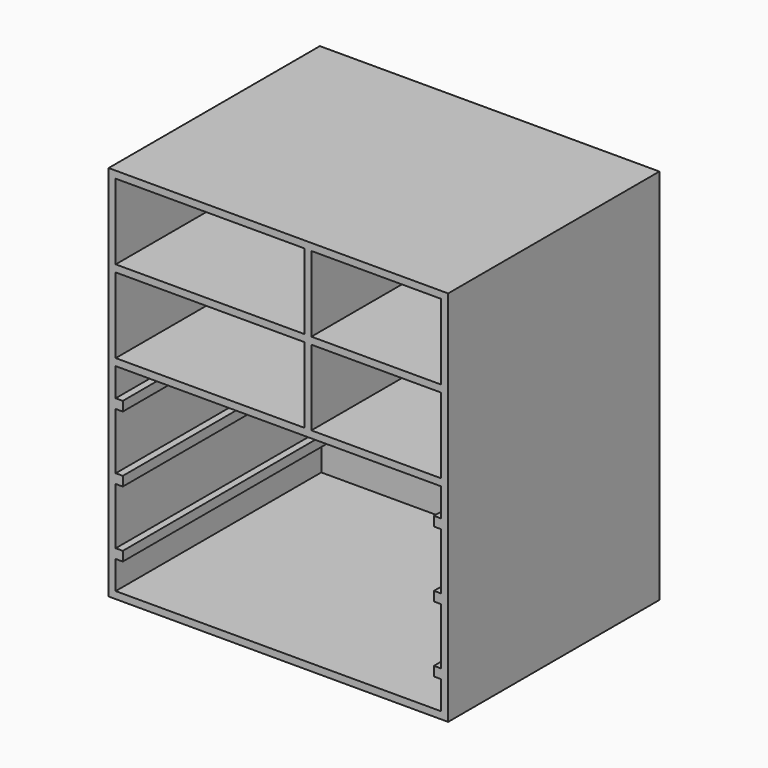
from build123d import *

# Parameters (mm, degrees)
F0_W     = 914.4
F0_H     = 1016
F0_W_2   = 508
F0_H_2   = 203.2
F0_W_3   = 349.25
F0_W_4   = 19.1113628226
F0_H_3   = 25.4
F1_DEPTH = 19.05
F2_DEPTH = 692.15


with BuildPart() as f1:
    # F0 (on Front) → F1 (new body)
    with BuildSketch(Plane.XZ):
        Rectangle(F0_W, F0_H)
        Polygon((-438.15, -31.75), (-438.15, 44.45), (438.15, 44.45), (438.15, -31.75), (438.15, -57.15), (438.15, -209.55), (438.15, -234.95), (438.15, -387.35), (438.15, -412.75), (438.15, -488.95), (-438.15, -488.95), (-438.15, -412.75), (-438.15, -387.35), (-438.15, -234.95), (-438.15, -209.55), (-438.15, -57.15), align=None, mode=Mode.SUBTRACT)
        with Locations((-184.15, 165.1)):
            Rectangle(F0_W_2, F0_H_2, mode=Mode.SUBTRACT)
        with Locations((-184.15, 387.35)):
            Rectangle(F0_W_2, F0_H_2, mode=Mode.SUBTRACT)
        with Locations((263.525, 165.1)):
            Rectangle(F0_W_3, F0_H_2, mode=Mode.SUBTRACT)
        Polygon((438.15, 488.95), (438.15, 285.75), (88.9, 285.75), (88.9, 317.5), (88.9, 488.95), align=None, mode=Mode.SUBTRACT)
        Polygon((88.9, 285.75), (438.15, 285.75), (438.15, 488.95), (88.9, 488.95), (88.9, 317.5), align=None)
        Polygon((88.9, 285.75), (438.15, 285.75), (438.15, 488.95), (88.9, 488.95), (88.9, 317.5), align=None)
        with Locations((-184.15, 165.1)):
            Rectangle(F0_W_2, F0_H_2)
        Polygon((438.15, 44.45), (-438.15, 44.45), (-438.15, -31.75), (-419.0386371774, -31.75), (-419.0386371774, -57.15), (-438.15, -57.15), (-438.15, -209.55), (-419.0386371774, -209.55), (-419.0386371774, -234.95), (-438.15, -234.95), (-438.15, -387.35), (-419.0386371774, -387.35), (-419.0386371774, -412.75), (-438.15, -412.75), (-438.15, -488.95), (438.15, -488.95), (438.15, -412.75), (419.0386371774, -412.75), (419.0386371774, -387.35), (438.15, -387.35), (438.15, -234.95), (419.0386371774, -234.95), (419.0386371774, -209.55), (438.15, -209.55), (438.15, -57.15), (419.0386371774, -57.15), (419.0386371774, -31.75), (438.15, -31.75), align=None)
        with Locations((-428.5943185887, -44.45)):
            Rectangle(F0_W_4, F0_H_3)
        with Locations((-428.5943185887, -222.25)):
            Rectangle(F0_W_4, F0_H_3)
        with Locations((-428.5943185887, -400.05)):
            Rectangle(F0_W_4, F0_H_3)
        with Locations((428.5943185887, -400.05)):
            Rectangle(F0_W_4, F0_H_3)
        with Locations((428.5943185887, -222.25)):
            Rectangle(F0_W_4, F0_H_3)
        with Locations((428.5943185887, -44.45)):
            Rectangle(F0_W_4, F0_H_3)
        with Locations((-184.15, 387.35)):
            Rectangle(F0_W_2, F0_H_2)
        with Locations((263.525, 165.1)):
            Rectangle(F0_W_3, F0_H_2)
    extrude(amount=-F1_DEPTH)

    # F0 (on Front) → F2 (join)
    with BuildSketch(Plane.XZ):
        Rectangle(F0_W, F0_H)
        Polygon((-438.15, -31.75), (-438.15, 44.45), (438.15, 44.45), (438.15, -31.75), (438.15, -57.15), (438.15, -209.55), (438.15, -234.95), (438.15, -387.35), (438.15, -412.75), (438.15, -488.95), (-438.15, -488.95), (-438.15, -412.75), (-438.15, -387.35), (-438.15, -234.95), (-438.15, -209.55), (-438.15, -57.15), align=None, mode=Mode.SUBTRACT)
        with Locations((-184.15, 165.1)):
            Rectangle(F0_W_2, F0_H_2, mode=Mode.SUBTRACT)
        with Locations((-184.15, 387.35)):
            Rectangle(F0_W_2, F0_H_2, mode=Mode.SUBTRACT)
        with Locations((263.525, 165.1)):
            Rectangle(F0_W_3, F0_H_2, mode=Mode.SUBTRACT)
        Polygon((438.15, 488.95), (438.15, 285.75), (88.9, 285.75), (88.9, 317.5), (88.9, 488.95), align=None, mode=Mode.SUBTRACT)
        with Locations((-428.5943185887, -400.05)):
            Rectangle(F0_W_4, F0_H_3)
        with Locations((-428.5943185887, -222.25)):
            Rectangle(F0_W_4, F0_H_3)
        with Locations((-428.5943185887, -44.45)):
            Rectangle(F0_W_4, F0_H_3)
        with Locations((428.5943185887, -44.45)):
            Rectangle(F0_W_4, F0_H_3)
        with Locations((428.5943185887, -222.25)):
            Rectangle(F0_W_4, F0_H_3)
        with Locations((428.5943185887, -400.05)):
            Rectangle(F0_W_4, F0_H_3)
    extrude(amount=F2_DEPTH)


solid = f1.part
